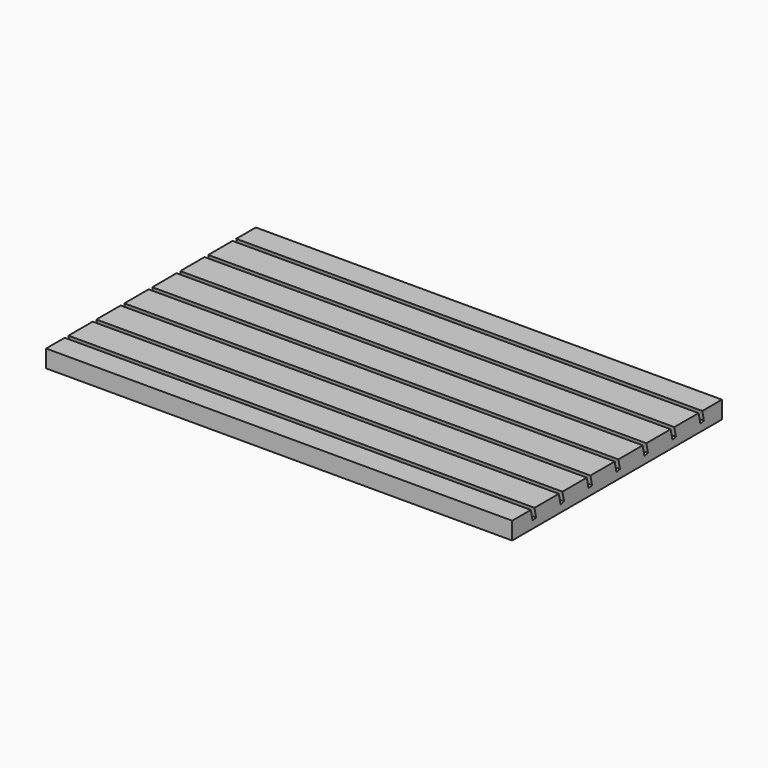
from build123d import *

# Parameters (mm, degrees)
F0_W          = 285.75
F0_H          = 19.05
F1_DEPTH      = 254
F1_DEPTH_BACK = 254
F3_DEPTH      = 508.001


with BuildPart() as f1:
    # F0 (on Right) → F1 (new body, two sides)
    with BuildSketch(Plane.YZ) as f1_sk:
        Rectangle(F0_W, F0_H)
    extrude(amount=F1_DEPTH)
    extrude(f1_sk.sketch, amount=-F1_DEPTH_BACK)

    # F2 (on face) → F3 (cut, through all)
    with BuildSketch(Plane.YZ.offset(254)):
        Polygon((-112.447638, 9.525), (-117.475, 9.525), (-115.089382, -1.69845), (-110.279339, -0.676044), align=None)
        Polygon((-74.347638, 9.525), (-79.375, 9.525), (-76.989382, -1.69845), (-72.179339, -0.676044), align=None)
        Polygon((-36.247638, 9.525), (-41.275, 9.525), (-38.889382, -1.69845), (-34.079339, -0.676044), align=None)
        Polygon((1.852362, 9.525), (-3.175, 9.525), (-0.789382, -1.69845), (4.020661, -0.676044), align=None)
        Polygon((39.952362, 9.525), (34.925, 9.525), (37.310618, -1.69845), (42.120661, -0.676044), align=None)
        Polygon((80.220661, -0.676044), (78.052362, 9.525), (73.025, 9.525), (75.410618, -1.69845), align=None)
        Polygon((118.320661, -0.676044), (116.152362, 9.525), (111.125, 9.525), (113.510618, -1.69845), align=None)
    extrude(amount=-F3_DEPTH, mode=Mode.SUBTRACT)


solid = f1.part
